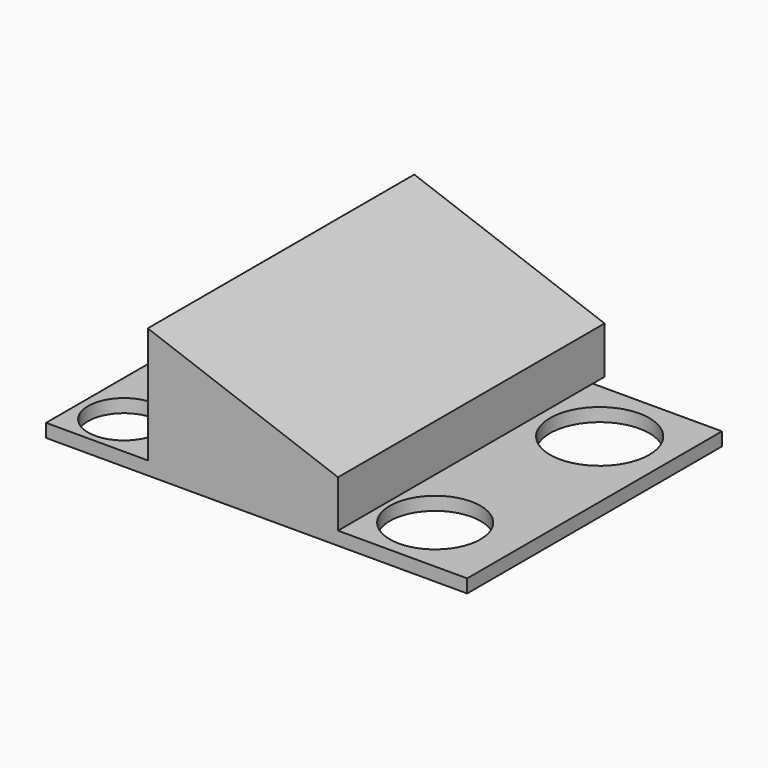
from build123d import *

# Parameters (mm, degrees)
F0_W     = 63.20139
F0_H     = 47.793298
F0_R     = 5.383544
F0_R_2   = 6.809705
F0_R_3   = 5.839267
F0_R_4   = 7.460797
F1_DEPTH = 2
F3_DEPTH = 50


with BuildPart() as f1:
    # F0 (on Top) → F1 (new body)
    with BuildSketch(Plane.XY):
        Rectangle(F0_W, F0_H)
        with Locations((-25.030309, -17.485425)):
            Circle(F0_R, mode=Mode.SUBTRACT)
        with Locations((19.828575, -15.185272)):
            Circle(F0_R_2, mode=Mode.SUBTRACT)
        with Locations((-24.514884, 13.153892)):
            Circle(F0_R_3, mode=Mode.SUBTRACT)
        with Locations((21.219891, 13.936961)):
            Circle(F0_R_4, mode=Mode.SUBTRACT)
    extrude(amount=F1_DEPTH)

    # F2 (on face) → F3 (join)
    with BuildSketch(Plane.XZ.offset(23.896649)):
        Polygon((12.217186, 2), (12.217186, 9.05502), (-16.335363, 19.447298), (-16.335363, 2), align=None)
    extrude(amount=-F3_DEPTH)


solid = f1.part
